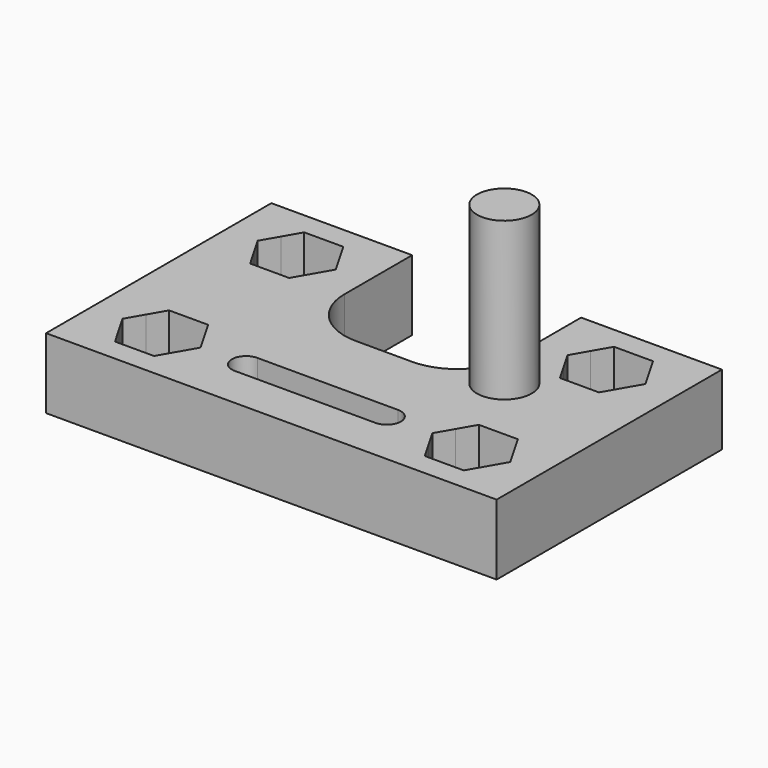
from build123d import *

# Parameters (mm, degrees)
F1_DEPTH = 25
F3_R     = 9.716301
F4_DEPTH = 55.9


with BuildPart() as f1:
    # F0 (on Top) → F1 (new body)
    with BuildSketch(Plane.XY):
        with BuildLine():
            Line((-22.616219, -32.090175), (-72.616219, -32.090175))
            Line((-72.616219, -32.090175), (-72.616219, -112.090175))
            Line((-72.616219, -112.090175), (-72.616219, -132.090175))
            Line((-72.616219, -132.090175), (-17.616219, -132.090175))
            Line((-17.616219, -132.090175), (87.383781, -132.090175))
            Line((87.383781, -132.090175), (87.383781, -112.090175))
            Line((87.383781, -112.090175), (87.383781, -52.090175))
            Line((87.383781, -52.090175), (87.383781, -32.090175))
            Line((87.383781, -32.090175), (62.383781, -32.090175))
            Line((62.383781, -32.090175), (37.383781, -32.090175))
            Line((37.383781, -32.090175), (37.383781, -62.090175))
            ThreePointArc((37.383781, -62.090175), (31.525917, -76.23231), (17.383781, -82.090175))
            Line((17.383781, -82.090175), (-2.616219, -82.090175))
            ThreePointArc((-2.616219, -82.090175), (-16.758354, -76.23231), (-22.616219, -62.090175))
            Line((-22.616219, -62.090175), (-22.616219, -32.090175))
        make_face()
        Polygon((-40.688015, -100.090175), (-37.223914, -106.090175), (-33.759812, -112.090175), (-37.223914, -118.090175), (-40.688015, -124.090175), (-47.616219, -124.090175), (-54.544422, -124.090175), (-58.008523, -118.090175), (-61.472625, -112.090175), (-58.008523, -106.090175), (-54.544422, -100.090175), (-47.616219, -100.090175), align=None, mode=Mode.SUBTRACT)
        with BuildLine():
            ThreePointArc((-17.616219, -117.090175), (-22.616219, -112.090175), (-17.616219, -107.090175))
            Line((-17.616219, -107.090175), (32.383781, -107.090175))
            ThreePointArc((32.383781, -107.090175), (37.383781, -112.090175), (32.383781, -117.090175))
            Line((32.383781, -117.090175), (-17.616219, -117.090175))
        make_face(mode=Mode.SUBTRACT)
        Polygon((69.311985, -100.090175), (72.776086, -106.090175), (76.240188, -112.090175), (72.776086, -118.090175), (69.311985, -124.090175), (62.383781, -124.090175), (55.455578, -124.090175), (51.991477, -118.090175), (48.527375, -112.090175), (51.991477, -106.090175), (55.455578, -100.090175), (62.383781, -100.090175), align=None, mode=Mode.SUBTRACT)
        Polygon((-40.688015, -40.090175), (-37.223914, -46.090175), (-33.759812, -52.090175), (-37.223914, -58.090175), (-40.688015, -64.090175), (-47.616219, -64.090175), (-54.544422, -64.090175), (-58.008523, -58.090175), (-61.472625, -52.090175), (-58.008523, -46.090175), (-54.544422, -40.090175), (-47.616219, -40.090175), align=None, mode=Mode.SUBTRACT)
        Polygon((69.311985, -40.090175), (72.776087, -46.090175), (76.240188, -52.090175), (72.776086, -58.090175), (69.311985, -64.090175), (62.383781, -64.090175), (55.455578, -64.090175), (51.991477, -58.090175), (48.527375, -52.090175), (51.991477, -46.090175), (55.455578, -40.090175), (62.383781, -40.090175), align=None, mode=Mode.SUBTRACT)
    extrude(amount=F1_DEPTH)

    # F3 (on face) → F4 (join)
    with BuildSketch(Plane.XY.offset(25)):
        with Locations((45.454014, -76.263003)):
            Circle(F3_R)
    extrude(amount=F4_DEPTH)


solid = f1.part
